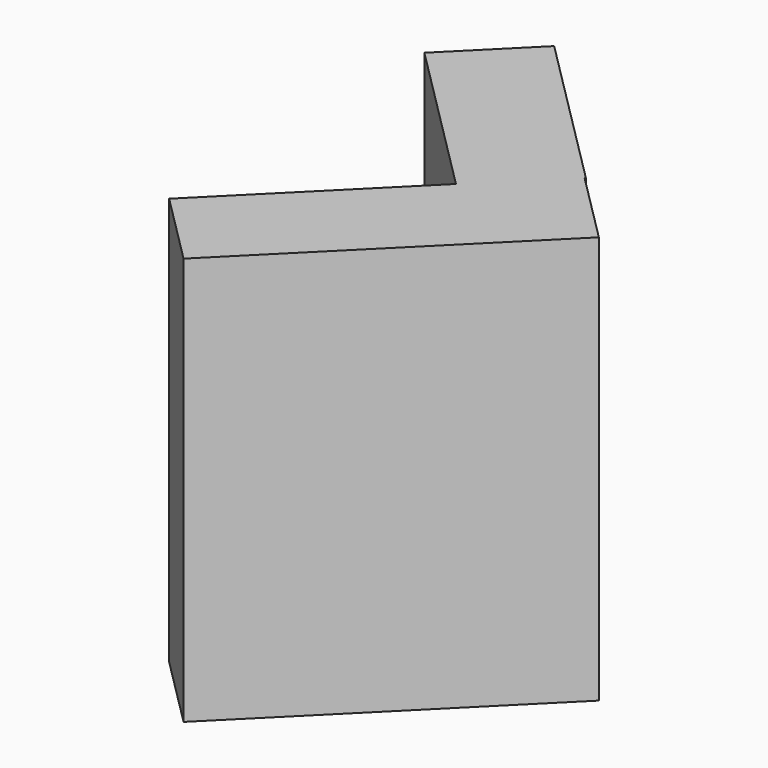
from build123d import *

# Parameters (mm, degrees)
BOX003_W                  = 0.05
BOX003_H                  = 0.11
BOX003_DEPTH              = 0.2
BOX003_PLACEMENT_ANGLE    = -45
BOX002_W                  = 0.05
BOX002_H                  = 0.16
BOX002_DEPTH              = 0.2
BOX002_PLACEMENT_ANGLE    = 45
FUSION001_PLACEMENT_ANGLE = 90


with BuildPart() as kub003:
    # Box003 → Box003 (new body)
    with BuildSketch(Plane.XY):
        with Locations((0.025, 0.055)):
            Rectangle(BOX003_W, BOX003_H)
    extrude(amount=BOX003_DEPTH)


with BuildPart() as kub003_1:
    # Box003 placement: moved
    add(kub003.part.moved(Location((0, 1.97, 0))).rotate(Axis((0, 1.97, 0), (0, 0, 1)), BOX003_PLACEMENT_ANGLE))


with BuildPart() as fusion001:
    # Box002 → Box002 (new body)
    with BuildSketch(Plane.XY):
        with Locations((0.025, 0.08)):
            Rectangle(BOX002_W, BOX002_H)
    extrude(amount=BOX002_DEPTH)


with BuildPart() as fusion001_1:
    # Box002 placement: moved
    add(fusion001.part.moved(Location((0, 1.9, 0))).rotate(Axis((0, 1.9, 0), (0, 0, 1)), BOX002_PLACEMENT_ANGLE))

    # Fusion001: union Kub003
    add(kub003_1.part)


with BuildPart() as fusion001_2:
    # Fusion001 placement: moved
    add(fusion001_1.part.rotate(Axis((0, 0, 0), (0, 0, 1)), FUSION001_PLACEMENT_ANGLE))


solid = fusion001_2.part
